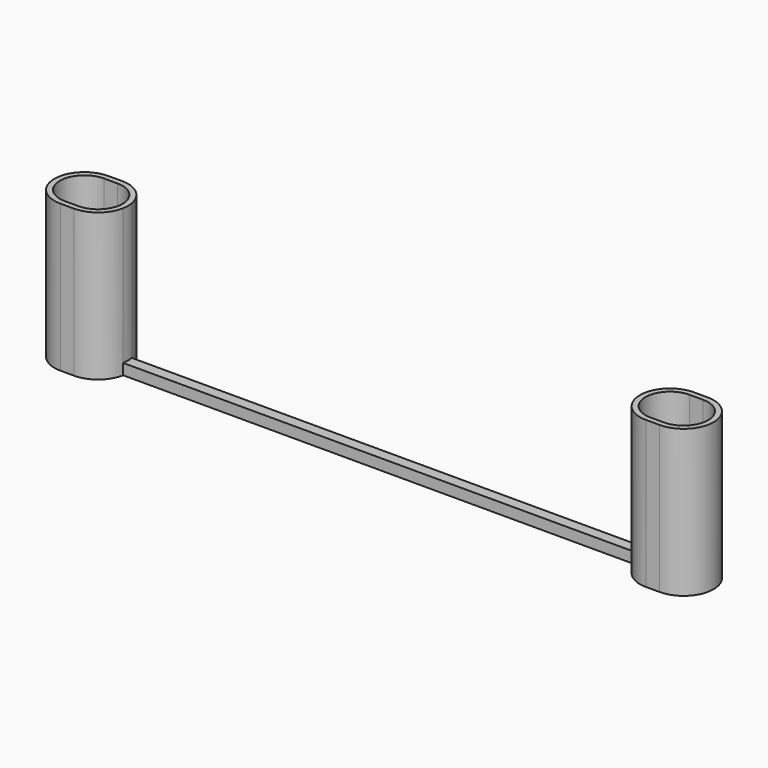
from build123d import *

# Parameters (mm, degrees)
F1_DEPTH = 27
F2_DEPTH = 2


with BuildPart() as f1:
    # F0 (on Top) → F1 (new body)
    with BuildSketch(Plane.XY):
        with BuildLine():
            Line((-52.5, 5.5), (-55, 5.5))
            ThreePointArc((-55, 5.5), (-60.5, 0), (-55, -5.5))
            Line((-55, -5.5), (-52.5, -5.5))
            ThreePointArc((-52.5, -5.5), (-48.982188, -4.227884), (-47.091673, -1))
            ThreePointArc((-47.091673, -1), (-47, 0), (-47.091673, 1))
            ThreePointArc((-47.091673, 1), (-48.982188, 4.227884), (-52.5, 5.5))
        make_face()
        with BuildLine():
            ThreePointArc((-52.5, 4.5), (-48, 0), (-52.5, -4.5))
            Line((-52.5, -4.5), (-55, -4.5))
            ThreePointArc((-55, -4.5), (-59.5, 0), (-55, 4.5))
            Line((-55, 4.5), (-52.5, 4.5))
        make_face(mode=Mode.SUBTRACT)
    extrude(amount=F1_DEPTH)

    # F0 (on Top) → F2 (join)
    with BuildSketch(Plane.XY):
        with BuildLine():
            Line((0, 1), (-47.091673, 1))
            ThreePointArc((-47.091673, 1), (-47, 0), (-47.091673, -1))
            Line((-47.091673, -1), (0, -1))
            Line((0, -1), (0, 1))
        make_face()
    extrude(amount=F2_DEPTH)

    # F3: F1 across plane


with BuildPart() as f1_1:
    add(f1.part)
    add(f1.part.mirror(Plane.YZ))


solid = f1_1.part
